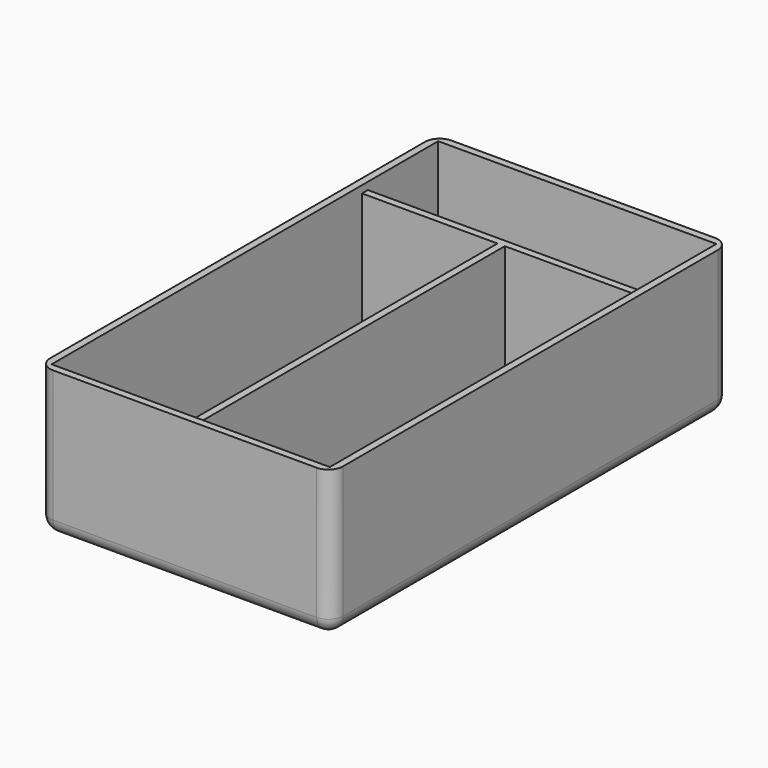
from build123d import *

# Parameters (mm, degrees)
F0_W     = 100
F0_H     = 170
F1_DEPTH = 50
F2_T     = -2.5
F3_R     = 5
F4_W     = 95
F4_H     = 2.5
F5_DEPTH = 45
F6_W     = 2.5
F6_H     = 132.5
F7_DEPTH = 45


with BuildPart() as f1:
    # F0 (on Top) → F1 (new body)
    with BuildSketch(Plane.XY):
        with Locations((50, 85)):
            Rectangle(F0_W, F0_H)
    extrude(amount=F1_DEPTH)

    # F2
    f2_openings = [f1.faces().sort_by_distance(p)[0] for p in [
        (50, 85, 50),
    ]]
    offset(amount=F2_T, openings=f2_openings)

    # F3
    f3_edges = [f1.edges().sort_by_distance(p)[0] for p in [
        (100, 170, 25),
        (100, 85, 0),
        (100, 0, 25),
        (0, 0, 25),
        (50, 0, 0),
        (0, 85, 0),
        (50, 170, 0),
        (0, 170, 25),
    ]]
    fillet(f3_edges, radius=F3_R)

    # F4 (on face) → F5 (join)
    with BuildSketch(Plane.XY.offset(2.5)):
        with Locations((50, 136.25)):
            Rectangle(F4_W, F4_H)
    extrude(amount=F5_DEPTH)

    # F6 (on face) → F7 (join)
    with BuildSketch(Plane.XY.offset(2.5)):
        with Locations((50, 68.75)):
            Rectangle(F6_W, F6_H)
    extrude(amount=F7_DEPTH)


solid = f1.part
